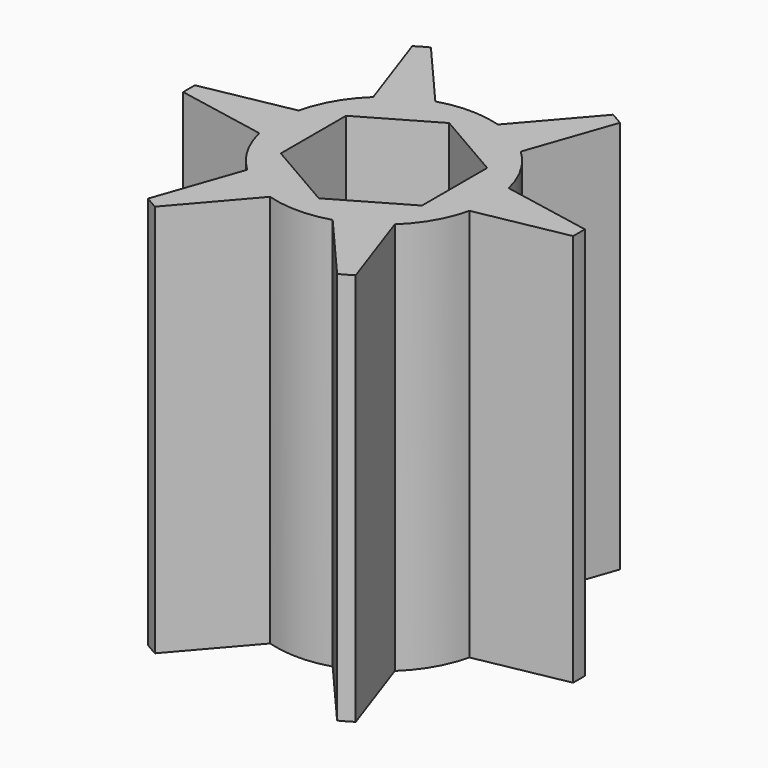
from build123d import *

# Parameters (mm, degrees)
SKETCH024_R           = 22
PAD011_DEPTH          = 80.15
PAD012_DEPTH          = 80.15
POLARPATTERN007_COUNT = 6
POCKET014_DEPTH       = 80.151


with BuildPart() as part:
    # Sketch024 → Pad011 (new body)
    with BuildSketch(Plane.XY):
        Circle(SKETCH024_R)
    extrude(amount=PAD011_DEPTH)

    # Sketch022 → Pad012 (join)
    with BuildSketch(Plane.XY):
        with BuildLine():
            ThreePointArc((39.721688, -1.5), (39.75, 0), (39.721688, 1.5))
            Line((21.424285, 5), (39.721688, 1.5))
            Line((21.424285, 5), (14.666667, 0))
            Line((14.666667, 0), (21.424285, -5))
            Line((21.424285, -5), (39.721688, -1.5))
        make_face()
    pad012 = extrude(amount=PAD012_DEPTH)

    # PolarPattern007: Pad012 ×6 about axis
    polarpattern007_axis = Axis((0, 0, 0), (0, 0, 1))
    for i in range(1, POLARPATTERN007_COUNT):
        add(pad012.rotate(polarpattern007_axis, i * 360 / POLARPATTERN007_COUNT))

    # Sketch023 → Pocket014 (cut, through all)
    with BuildSketch(Plane.XY):
        Polygon((14.3875, 8.306627), (0, 16.613254), (-14.3875, 8.306627), (-14.3875, -8.306627), (0, -16.613254), (14.3875, -8.306627), align=None)
    extrude(amount=POCKET014_DEPTH, mode=Mode.SUBTRACT)


with BuildPart() as part_1:
    # Body030 placement: moved
    add(part.part.moved(Location((0, -100, 0))))


solid = part_1.part
